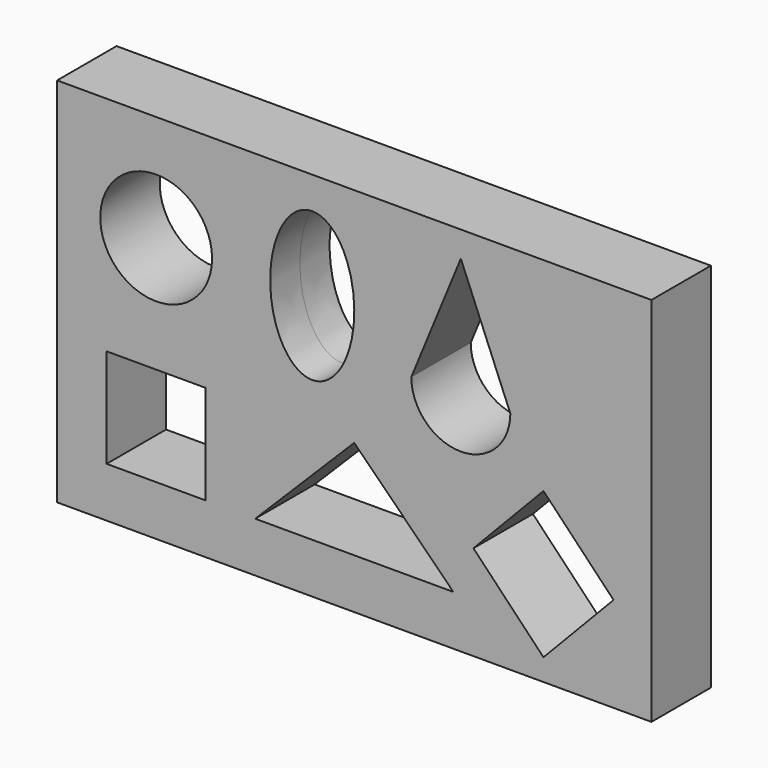
from build123d import *

# Parameters (mm, degrees)
F0_W     = 120
F0_H     = 75
F0_W_2   = 20
F0_H_2   = 20
F0_R     = 11.2835
F1_DEPTH = 7.5


with BuildPart() as f1:
    # F0 (on Front) → F1 (new body, symmetric)
    with BuildSketch(Plane.XZ):
        with Locations((0, -12.5)):
            Rectangle(F0_W, F0_H)
        with Locations((-40.000001, -29.899994)):
            Rectangle(F0_W_2, F0_H_2, mode=Mode.SUBTRACT)
        Polygon((19.999999, -39.899994), (-1e-06, -39.899994), (-20.000001, -39.899994), (-1e-06, -19.899994), align=None, mode=Mode.SUBTRACT)
        Polygon((24.057998, -30.820105), (38.199998, -16.040212), (52.341998, -30.820105), (38.199998, -45.599997), align=None, mode=Mode.SUBTRACT)
        with Locations((-39.999999, 3.504108)):
            Circle(F0_R, mode=Mode.SUBTRACT)
        with BuildLine():
            add(Edge.make_bspline(
                [(-8.488411, 18.504108), (-23.190058, 18.504108), (-15.839235, -3.995892), (-8.488411, -26.495892), (-1.137588, -3.995892), (6.213236, 18.504108), (-8.488411, 18.504108)],
                knots=[0, 0, 0, 2.094395, 2.094395, 4.18879, 4.18879, 6.283185, 6.283185, 6.283185], degree=2, weights=[1, 0.5, 1, 0.5, 1, 0.5, 1]))
        make_face(mode=Mode.SUBTRACT)
        with BuildLine():
            ThreePointArc((31.512001, -4.466328), (21.512001, -14.466328), (11.512001, -4.466328))
            Line((11.512001, -4.466328), (21.512001, 19.825672))
            Line((21.512001, 19.825672), (31.512001, -4.466328))
        make_face(mode=Mode.SUBTRACT)
    extrude(amount=F1_DEPTH, both=True)


solid = f1.part
